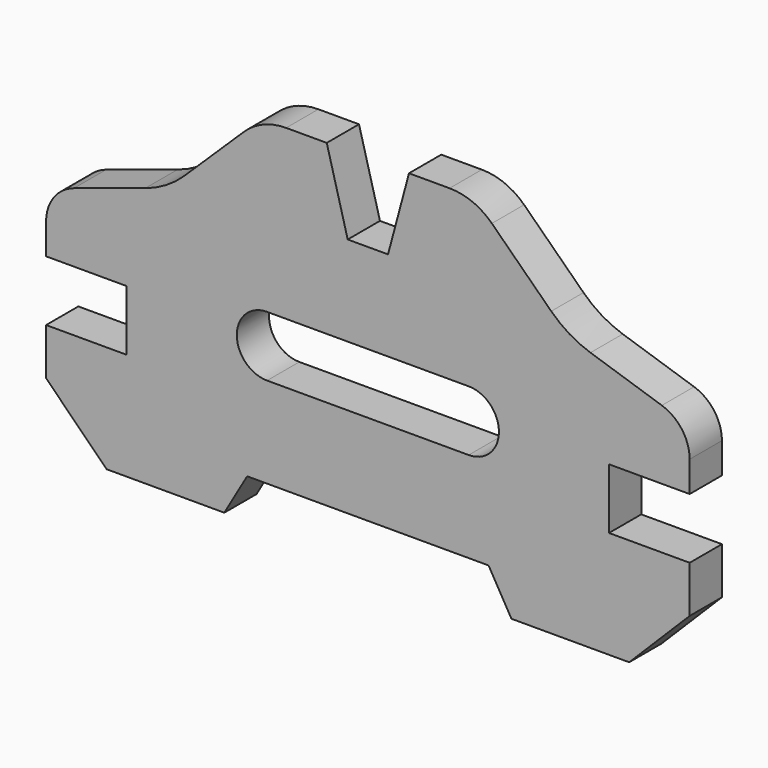
from build123d import *

# Parameters (mm, degrees)
F1_DEPTH = 12.7
F2_SIZE  = 19.05


with BuildPart() as f1:
    # F0 (on Front) → F1 (new body)
    with BuildSketch(Plane.XZ):
        with BuildLine():
            Line((12.951732, 108.678198), (6.35, 84.040198))
            Line((6.35, 84.040198), (-6.35, 84.040198))
            Line((-6.35, 84.040198), (-12.951732, 108.678198))
            Line((-12.951732, 108.678198), (-25.737891, 108.678198))
            ThreePointArc((-25.737891, 108.678198), (-32.921878, 107.271691), (-39.045043, 103.25986))
            Line((-39.045043, 103.25986), (-57.754429, 84.995861))
            ThreePointArc((-57.754429, 84.995861), (-63.499056, 80.549372), (-70.104, 77.525018))
            Line((-70.104, 77.525018), (-92.577607, 70.20831))
            ThreePointArc((-92.577607, 70.20831), (-98.922707, 65.594054), (-101.346, 58.132198))
            Line((-101.346, 58.132198), (-101.346, 48.480198))
            Line((-101.346, 48.480198), (-75.946, 48.480198))
            Line((-75.946, 48.480198), (-75.946, 29.430198))
            Line((-75.946, 29.430198), (-101.346, 29.430198))
            Line((-101.346, 29.430198), (-101.346, -4.351802))
            Line((-101.346, -4.351802), (-45.212, -4.351802))
            Line((-45.212, -4.351802), (-38.026299, 8.094198))
            Line((-38.026299, 8.094198), (0, 8.094198))
            Line((0, 8.094198), (38.026299, 8.094198))
            Line((38.026299, 8.094198), (45.212, -4.351802))
            Line((45.212, -4.351802), (101.346, -4.351802))
            Line((101.346, -4.351802), (101.346, 29.430198))
            Line((101.346, 29.430198), (75.946, 29.430198))
            Line((75.946, 29.430198), (75.946, 48.480198))
            Line((75.946, 48.480198), (101.346, 48.480198))
            Line((101.346, 48.480198), (101.346, 58.132198))
            ThreePointArc((101.346, 58.132198), (98.922707, 65.594054), (92.577607, 70.20831))
            Line((92.577607, 70.20831), (70.104, 77.525018))
            ThreePointArc((70.104, 77.525018), (63.499056, 80.549372), (57.754429, 84.995861))
            Line((57.754429, 84.995861), (39.045043, 103.25986))
            ThreePointArc((39.045043, 103.25986), (32.921878, 107.271691), (25.737891, 108.678198))
            Line((25.737891, 108.678198), (12.951732, 108.678198))
        make_face()
        with BuildLine():
            ThreePointArc((-31.75, 36.669198), (-41.275, 46.194198), (-31.75, 55.719198))
            Line((-31.75, 55.719198), (31.75, 55.719198))
            ThreePointArc((31.75, 55.719198), (41.275, 46.194198), (31.75, 36.669198))
            Line((31.75, 36.669198), (-31.75, 36.669198))
        make_face(mode=Mode.SUBTRACT)
    extrude(amount=F1_DEPTH)

    # F2
    f2_edges = [f1.edges().sort_by_distance(p)[0] for p in [
        (-101.346, -6.35, -4.351802),
        (101.346, -6.35, -4.351802),
    ]]
    chamfer(f2_edges, length=F2_SIZE)


solid = f1.part
